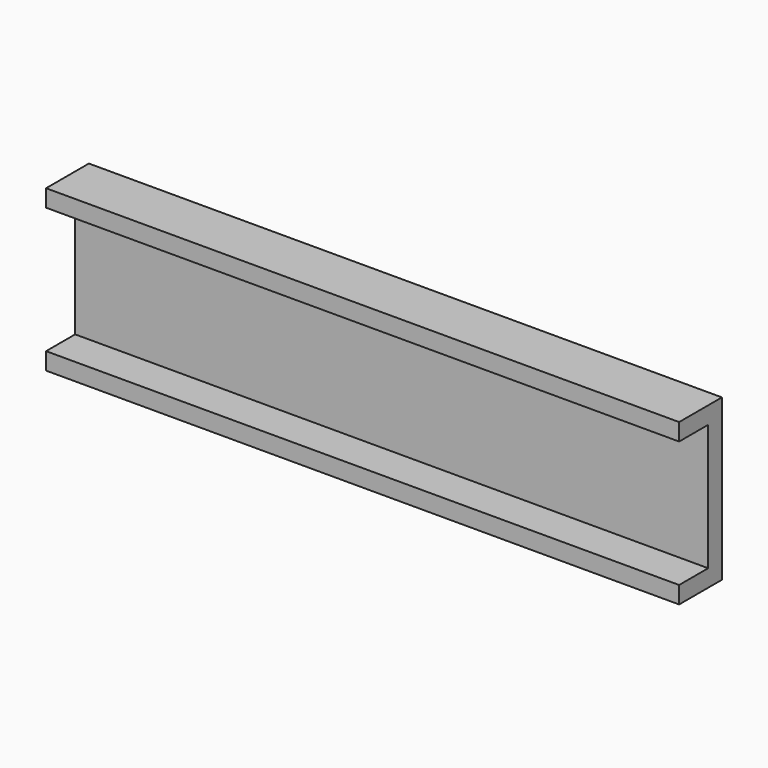
from build123d import *

# Parameters (mm, degrees)
F0_W     = 117.2
F0_H     = 23.39
F1_DEPTH = 3.895
F2_T     = -2.5
F3_DEPTH = 12.5
F4_DEPTH = 12.5


with BuildPart() as f1:
    # F0 (on Front) → F1 (new body, symmetric)
    with BuildSketch(Plane.XZ):
        with Locations((2.3269541562, -20.5496732644)):
            Rectangle(F0_W, F0_H)
    extrude(amount=F1_DEPTH, both=True)

    # F2
    f2_openings = [f1.faces().sort_by_distance(p)[0] for p in [
        (2.326954, -3.895, -20.549673),
    ]]
    offset(amount=F2_T, openings=f2_openings)

    # F3 (cut, symmetric): a face of the model
    f3_faces = [f1.faces().sort_by_distance(p)[0] for p in [
        (60.9269541562, 0, -20.5496732644),
    ]]
    extrude(f3_faces, amount=F3_DEPTH, both=True, mode=Mode.SUBTRACT)

    # F4 (cut, symmetric): a face of the model
    f4_faces = [f1.faces().sort_by_distance(p)[0] for p in [
        (-56.2730458438, 0, -20.5496732644),
    ]]
    extrude(f4_faces, amount=F4_DEPTH, both=True, mode=Mode.SUBTRACT)


solid = f1.part
